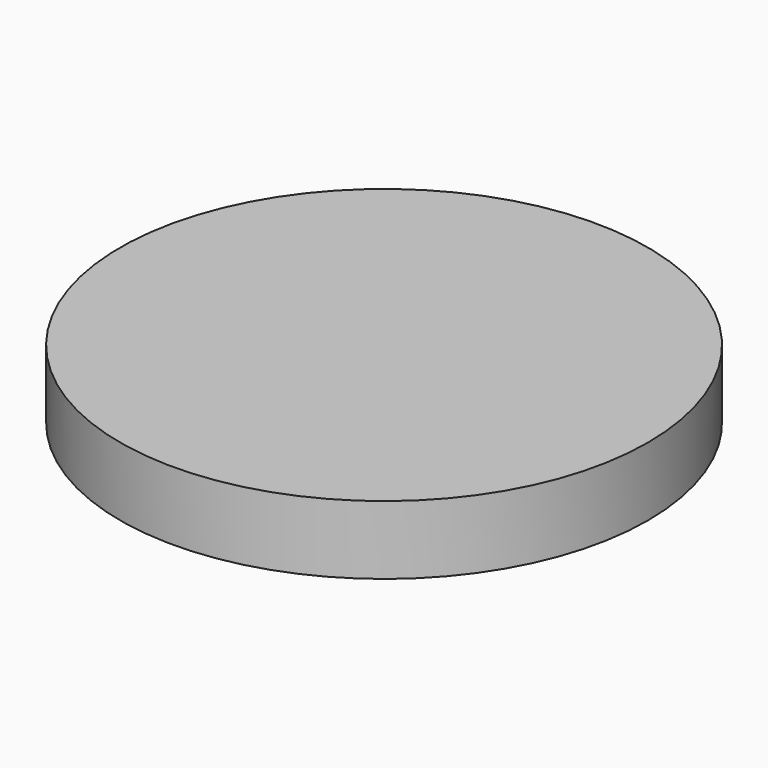
from build123d import *

# Parameters (mm, degrees)
SKETCH_R  = 38.5
PAD_DEPTH = 10


with BuildPart() as part:
    # Sketch (on XY_Plane001 of Origin002) → Pad (new body)
    with BuildSketch(Plane.XY):
        Circle(SKETCH_R)
    extrude(amount=PAD_DEPTH)


solid = part.part
